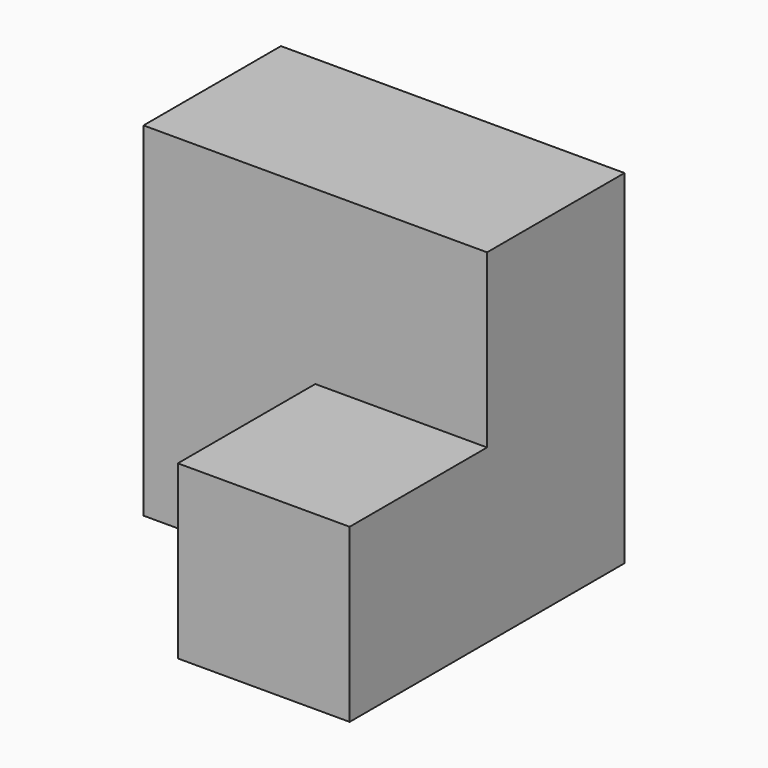
from build123d import *

# Parameters (mm, degrees)
F1_DEPTH = 25.4
F2_W     = 25.4
F2_H     = 25.4
F3_DEPTH = 25.4


with BuildPart() as f1:
    # F0 (on Front) → F1 (new body)
    with BuildSketch(Plane.XZ):
        Polygon((-50.8, 0), (0, 0), (0, 50.8), (-50.8, 50.8), (-50.8, 41.370533), align=None)
    extrude(amount=F1_DEPTH)

    # F2 (on face) → F3 (join)
    with BuildSketch(Plane.XZ.offset(25.4)):
        with Locations((-12.7, 12.7)):
            Rectangle(F2_W, F2_H)
    extrude(amount=F3_DEPTH)


solid = f1.part
